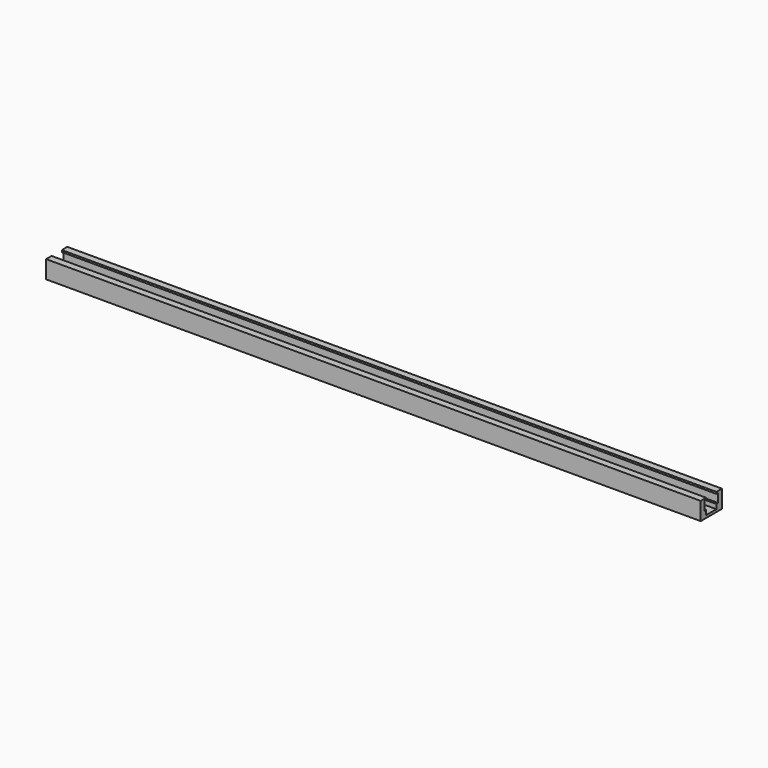
from build123d import *

# Parameters (mm, degrees)
F1_DEPTH = 457.2
F3_D     = 4.4958


with BuildPart() as f1:
    # F0 (on Right) → F1 (new body)
    with BuildSketch(Plane.YZ):
        Polygon((-9.271, 0), (0, 0), (9.271, 0), (9.271, 12.446), (4.445, 12.446), (4.445, 11.176), (6.0325, 11.176), (6.0325, 4.953), (4.445, 4.953), (4.445, 1.778), (0, 1.778), (-4.445, 1.778), (-4.445, 4.953), (-6.0325, 4.953), (-6.0325, 11.176), (-4.445, 11.176), (-4.445, 12.446), (-9.271, 12.446), align=None)
    extrude(amount=-F1_DEPTH)

    # F3 (through all)
    with Locations(Plane(origin=(0, 0, 0), x_dir=(1, 0, 0), z_dir=(0, 0, -1))):
        with Locations((-38.1, 0), (-114.3, 0), (-190.5, 0), (-266.7, 0), (-342.9, 0), (-419.1, 0)):
            Hole(F3_D / 2)


solid = f1.part
